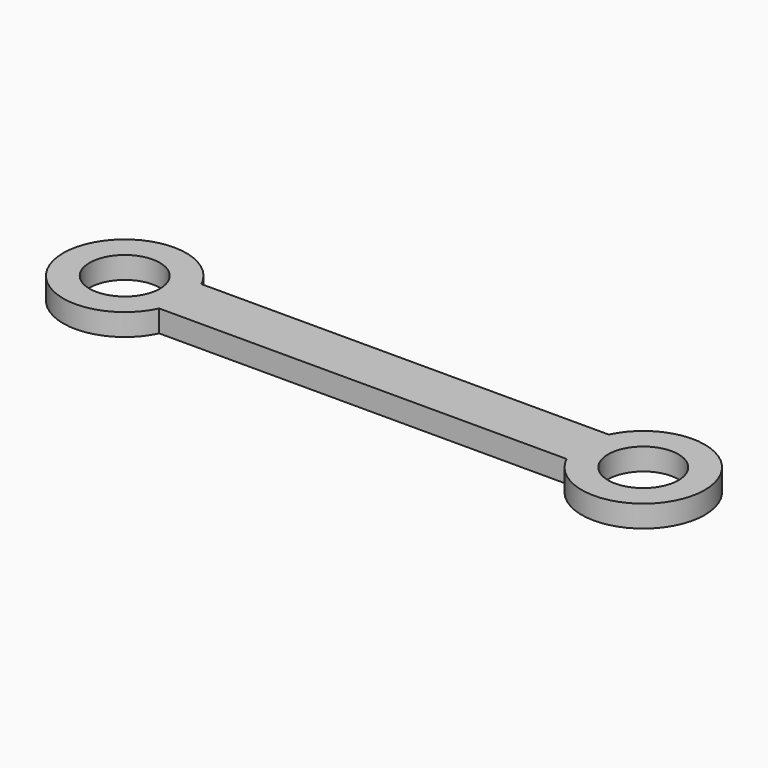
from build123d import *

# Parameters (mm, degrees)
SKETCH_R  = 8
PAD_DEPTH = 5


with BuildPart() as part:
    # Sketch → Pad (new body)
    with BuildSketch(Plane.XY):
        with BuildLine():
            ThreePointArc((-12.649979, -5.998168), (14, -0.002027), (-12.648242, 6.001832))
            Line((-105.351758, 6.001832), (-12.648242, 6.001832))
            ThreePointArc((-105.351758, 6.001832), (-132, -0.002027), (-105.350021, -5.998168))
            Line((-12.649979, -5.998168), (-105.350021, -5.998168))
        make_face()
        Circle(SKETCH_R, mode=Mode.SUBTRACT)
        with Locations((-118, 0)):
            Circle(SKETCH_R, mode=Mode.SUBTRACT)
    extrude(amount=PAD_DEPTH)


solid = part.part
